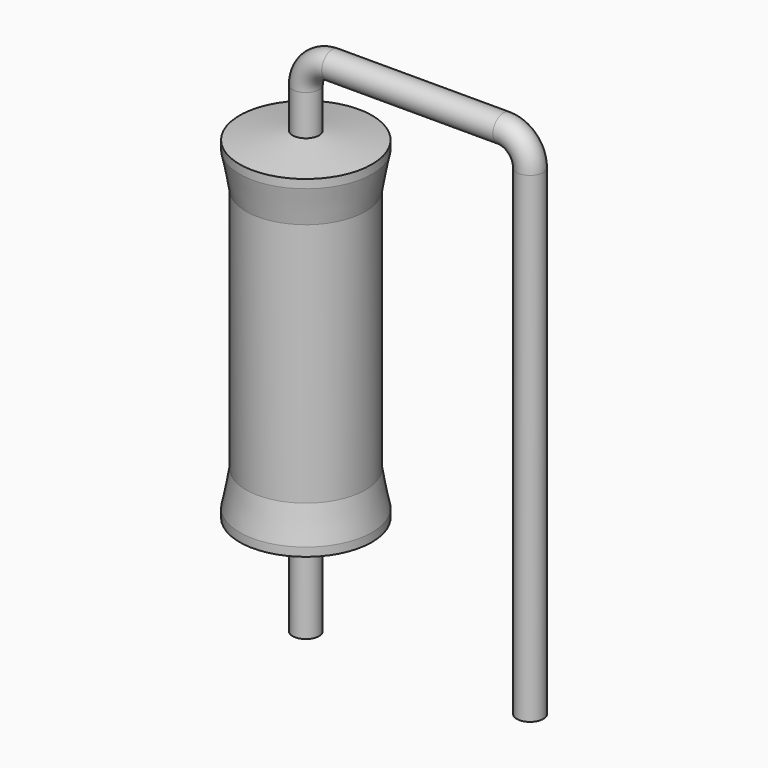
from build123d import *

# Parameters (mm, degrees)
SKETCH_R = 0.45


with BuildPart() as sweep_body:
    # Sweep: sweep along a path in Sketch001
    with BuildLine(Plane.XZ) as sweep_path:
        Line((0, -3), (0, 13.35))
        ThreePointArc((0, 13.35), (0.2636, 13.986392), (0.899988, 14.25))
        Line((0.899988, 14.25), (6.72, 14.25))
        ThreePointArc((6.72, 14.25), (7.356396, 13.986396), (7.62, 13.35))
        Line((7.62, 13.35), (7.62, -3))
    # Sketch → Sweep (sweep)
    with BuildSketch(Plane.XY.offset(-2)):
        Circle(SKETCH_R)
    sweep(path=sweep_path.line)


with BuildPart() as revolution:
    # Sketch002 → Revolution (revolve)
    with BuildSketch(Plane.XZ):
        Polygon((0, 0.1), (0, 12), (0.3375, 12), (2.25, 11.7025), (2.25, 11.41), (2.025, 10.215), (2.025, 1.885), (2.25, 0.69), (2.25, 0.3975), (0.3375, 0.1), align=None)
    revolve(axis=Axis((0, 0, 0), (0, 0, 1)))


solid = Compound([sweep_body.part, revolution.part])
